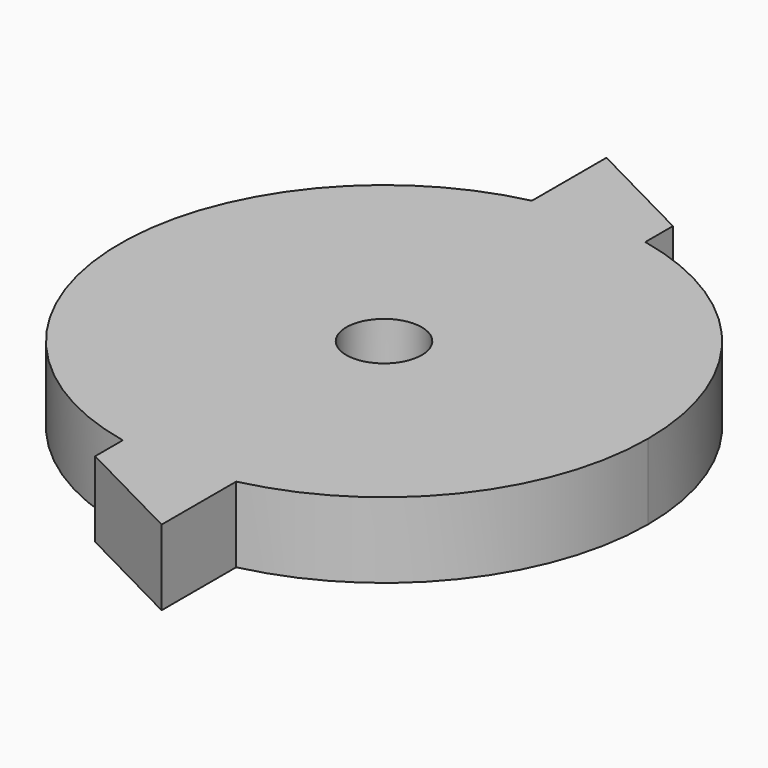
from build123d import *

# Parameters (mm, degrees)
F0_R     = 2.5
F1_DEPTH = 5


with BuildPart() as f1:
    # F0 (on Top) → F1 (new body)
    with BuildSketch(Plane.XY):
        with BuildLine():
            ThreePointArc((3.855527, -17.07), (13.669706, -10.926534), (17.5, 0))
            ThreePointArc((17.5, 0), (13.593381, 11.021343), (3.617714, 17.121978))
            ThreePointArc((3.617714, 17.121978), (-0.121713, 17.499577), (-3.855527, 17.07))
            ThreePointArc((-3.855527, 17.07), (-17.499577, -0.121713), (-3.617714, -17.121978))
            ThreePointArc((-3.617714, -17.121978), (0.121713, -17.499577), (3.855527, -17.07))
        make_face()
        Circle(F0_R, mode=Mode.SUBTRACT)
        with BuildLine():
            ThreePointArc((-3.855527, 17.07), (-0.121713, 17.499577), (3.617714, 17.121978))
            Line((3.617714, 17.121978), (3.617714, 19.408765))
            Line((3.617714, 19.408765), (-3.855527, 23.246588))
            Line((-3.855527, 23.246588), (-3.855527, 17.07))
        make_face()
        with BuildLine():
            Line((3.855527, -23.246588), (3.855527, -17.07))
            ThreePointArc((3.855527, -17.07), (0.121713, -17.499577), (-3.617714, -17.121978))
            Line((-3.617714, -17.121978), (-3.617714, -19.408765))
            Line((-3.617714, -19.408765), (3.855527, -23.246588))
        make_face()
    extrude(amount=F1_DEPTH)


solid = f1.part
